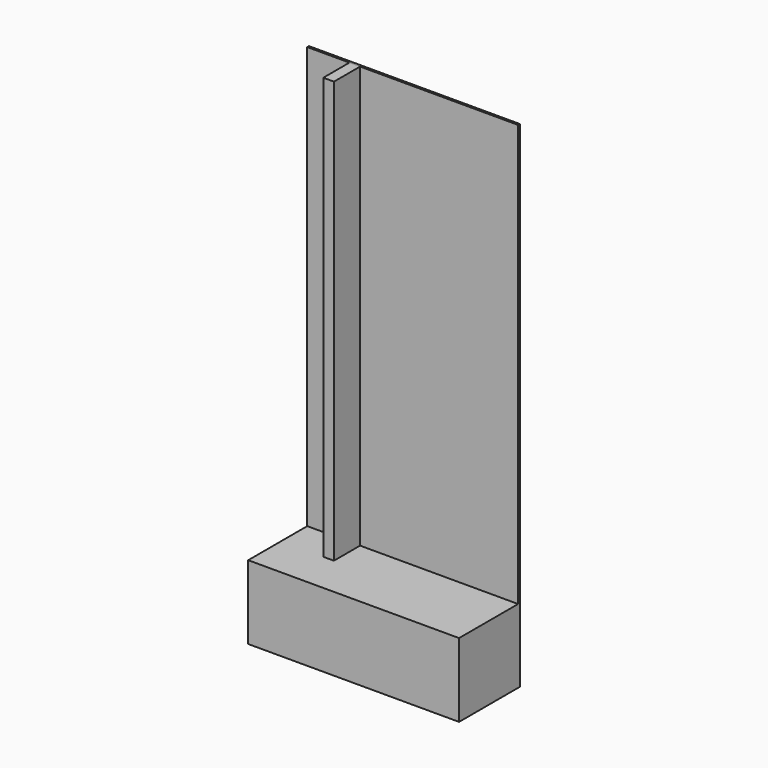
from build123d import *

# Parameters (mm, degrees)
F2_DEPTH = 2000
F1_W     = 50.5
F1_H     = 155
F3_DEPTH = 2000
F4_DEPTH = 350


with BuildPart() as f2:
    # F1 (on Top) → F2 (new body)
    with BuildSketch(Plane.XY):
        Polygon((548.0093955994, 392.6169663171), (-451.9906044006, 392.6169663171), (-451.9906044006, 382.6169663171), (-251.9906044006, 382.6169663171), (-201.4906044006, 382.6169663171), (548.0093955994, 382.6169663171), align=None)
    extrude(amount=F2_DEPTH)


with BuildPart() as f3:
    # F1 (on Top) → F3 (new body)
    with BuildSketch(Plane.XY):
        with Locations((-226.7406044006, 305.1169663171)):
            Rectangle(F1_W, F1_H)
    extrude(amount=F3_DEPTH)


with BuildPart() as f4:
    # F1 (on Top) → F4 (new body)
    with BuildSketch(Plane.XY):
        Polygon((-251.9906044006, 382.6169663171), (-451.9906044006, 382.6169663171), (-451.9906044006, 32.6169663171), (548.0093955994, 32.6169663171), (548.0093955994, 382.6169663171), (-201.4906044006, 382.6169663171), (-201.4906044006, 227.6169663171), (-251.9906044006, 227.6169663171), align=None)
        with Locations((-226.7406044006, 305.1169663171)):
            Rectangle(F1_W, F1_H)
        Polygon((548.0093955994, 392.6169663171), (-451.9906044006, 392.6169663171), (-451.9906044006, 382.6169663171), (-251.9906044006, 382.6169663171), (-201.4906044006, 382.6169663171), (548.0093955994, 382.6169663171), align=None)
    extrude(amount=-F4_DEPTH)


solid = Compound([f2.part, f3.part, f4.part])
